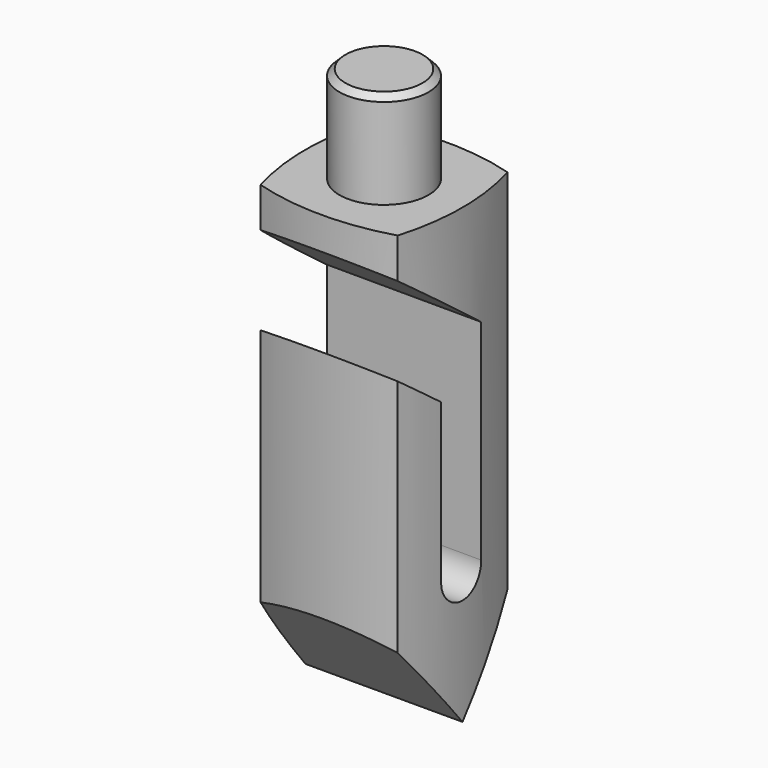
from build123d import *

# Parameters (mm, degrees)
PAD_DEPTH            = 75
SKETCH001_R          = 7.377572
PAD001_DEPTH         = 16
CHAMFER_SIZE         = 1
POCKET_DEPTH         = 13.001
POCKET_DEPTH_BACK    = -13.001
SKETCH003_R          = 4.728662
POCKET001_DEPTH      = 5
POCKET002_DEPTH      = 0.001
POCKET002_DEPTH_BACK = -27.579089
SKETCH005_R          = 1.899906
POCKET003_DEPTH      = 5


with BuildPart() as part:
    # Sketch → Pad (new body)
    with BuildSketch(Plane.XY):
        with BuildLine():
            ThreePointArc((-11.354577, 11.354577), (-13, 0), (-11.354577, -11.354577))
            ThreePointArc((-11.354577, -11.354577), (0, -13), (11.354577, -11.354577))
            ThreePointArc((11.354577, -11.354577), (13, 0), (11.354577, 11.354577))
            ThreePointArc((11.354577, 11.354577), (0, 13), (-11.354577, 11.354577))
        make_face()
    extrude(amount=PAD_DEPTH)

    # Sketch001 (on Face6 of Pad) → Pad001 (join)
    with BuildSketch(Plane.XY.offset(75)):
        Circle(SKETCH001_R)
    extrude(amount=PAD001_DEPTH)

    # Chamfer
    chamfer_edges = [part.edges().sort_by_distance(p)[0] for p in [
        (-7.377572, 0, 91),
    ]]
    chamfer(chamfer_edges, length=CHAMFER_SIZE)

    # Sketch002 → Pocket (cut, two sides)
    with BuildSketch(Plane.YZ) as pocket_sk:
        Polygon((0, 0), (-18.582906, 23.128181), (-18.582906, -17.102173), (18.582906, -17.102173), (18.582906, 23.128181), align=None)
    extrude(amount=-POCKET_DEPTH, mode=Mode.SUBTRACT)
    extrude(pocket_sk.sketch, amount=-POCKET_DEPTH_BACK, mode=Mode.SUBTRACT)

    # Sketch003 (on DatumPlane) → Pocket001 (cut)
    with BuildSketch(Plane(origin=(0, 13.444963, 45.243954), x_dir=(1, 0, 0), z_dir=(0, 1, -0.000512))):
        with Locations((0, 20.195527)):
            Circle(SKETCH003_R)
    extrude(amount=-POCKET001_DEPTH, mode=Mode.SUBTRACT)

    # Sketch004 (on DatumPlane) → Pocket002 (cut, two sides)
    with BuildSketch(Plane(origin=(-14.478585, 0, 40.939498), x_dir=(0, 1, 0), z_dir=(0.999997, 0, -0.002433))) as pocket002_sk:
        with BuildLine():
            ThreePointArc((-4.143615, -19.031831), (0, -23.175446), (4.143615, -19.031831))
            Line((4.143615, -19.031831), (4.143615, 15.684834))
            Line((-15.203477, 30.408852), (4.143615, 15.684834))
            Line((-15.203477, 30.408852), (-20.945486, 20.160222))
            Line((-4.143615, 7.373234), (-20.945486, 20.160222))
            Line((-4.143615, -19.031831), (-4.143615, 7.373234))
        make_face()
    extrude(amount=-POCKET002_DEPTH, mode=Mode.SUBTRACT)
    extrude(pocket002_sk.sketch, amount=-POCKET002_DEPTH_BACK, mode=Mode.SUBTRACT)

    # Sketch005 (on Face18 of Pocket002) → Pocket003 (cut)
    with BuildSketch(Plane(origin=(0, 8.421799, -0.004311), x_dir=(-1, 0, 0), z_dir=(0, 1, -0.000512))):
        with Locations((0, 25.085957)):
            Circle(SKETCH005_R)
    extrude(amount=-POCKET003_DEPTH, mode=Mode.SUBTRACT)


solid = part.part
